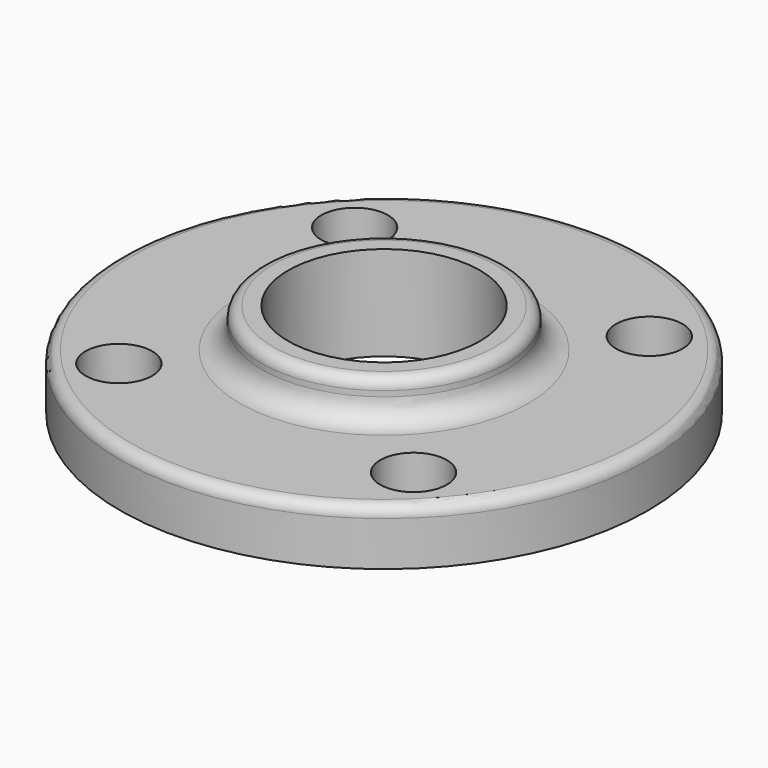
from build123d import *

# Parameters (mm, degrees)
F3_D = 12
F4_R = 2
F5_R = 4


with BuildPart() as f1:
    # F0 (on Front) → F1 (revolve)
    with BuildSketch(Plane.XZ):
        Polygon((22, 17), (17.25, 17), (17.25, 0), (47.5, 0), (47.5, 10), (22, 10), align=None)
    revolve(axis=Axis((0, 0, 4.398516), (0, 0, -1)))

    # F3 (through all)
    with Locations(Plane.XY.offset(10)):
        with Locations((-26.516504, 26.516504), (-26.516504, -26.516504), (26.516504, -26.516504), (26.516504, 26.516504)):
            Hole(F3_D / 2)

    # F4
    f4_edges = [f1.edges().sort_by_distance(p)[0] for p in [
        (-22, 0, 17),
        (-47.5, 0, 10),
    ]]
    fillet(f4_edges, radius=F4_R)

    # F5
    f5_edges = [f1.edges().sort_by_distance(p)[0] for p in [
        (-22, 0, 10),
    ]]
    fillet(f5_edges, radius=F5_R)


solid = f1.part
